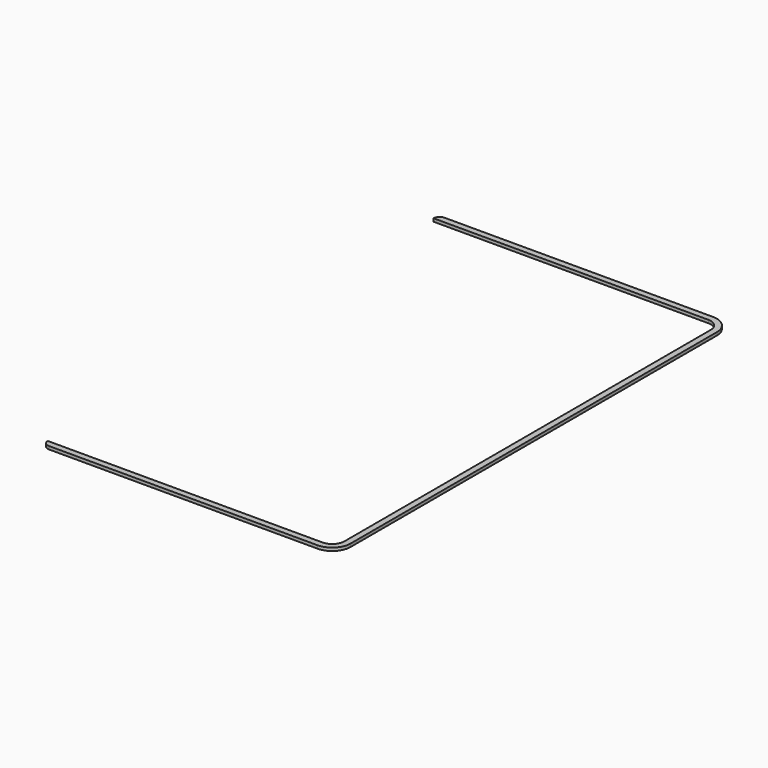
from build123d import *

# Parameters (mm, degrees)
BOX017_W     = 94
BOX017_H     = 158
BOX017_DEPTH = 1
FILLET009_R  = 4
BOX016_W     = 96
BOX016_H     = 162
BOX016_DEPTH = 1
FILLET010_R  = 6
FILLET011_R  = 2


with BuildPart() as fillet009:
    # Box017 → Box017 (new body)
    with BuildSketch(Plane(origin=(26, 6, 116.5), x_dir=(1, 0, 0), z_dir=(0, 0, 1))):
        with Locations((47, 79)):
            Rectangle(BOX017_W, BOX017_H)
    extrude(amount=BOX017_DEPTH)

    # Fillet009
    fillet009_edges = [fillet009.edges().sort_by_distance(p)[0] for p in [
        (120, 6, 117),
        (120, 164, 117),
    ]]
    fillet(fillet009_edges, radius=FILLET009_R)


with BuildPart() as cut352:
    # Box016 → Box016 (new body)
    with BuildSketch(Plane(origin=(26, 4, 116.5), x_dir=(1, 0, 0), z_dir=(0, 0, 1))):
        with Locations((48, 81)):
            Rectangle(BOX016_W, BOX016_H)
    extrude(amount=BOX016_DEPTH)

    # Fillet010
    fillet010_edges = [cut352.edges().sort_by_distance(p)[0] for p in [
        (122, 4, 117),
        (122, 166, 117),
    ]]
    fillet(fillet010_edges, radius=FILLET010_R)

    # Fillet011
    fillet011_edges = [cut352.edges().sort_by_distance(p)[0] for p in [
        (26, 166, 117),
        (26, 4, 117),
    ]]
    fillet(fillet011_edges, radius=FILLET011_R)

    # Cut012: cut Fillet009
    add(fillet009.part, mode=Mode.SUBTRACT)


solid = cut352.part
